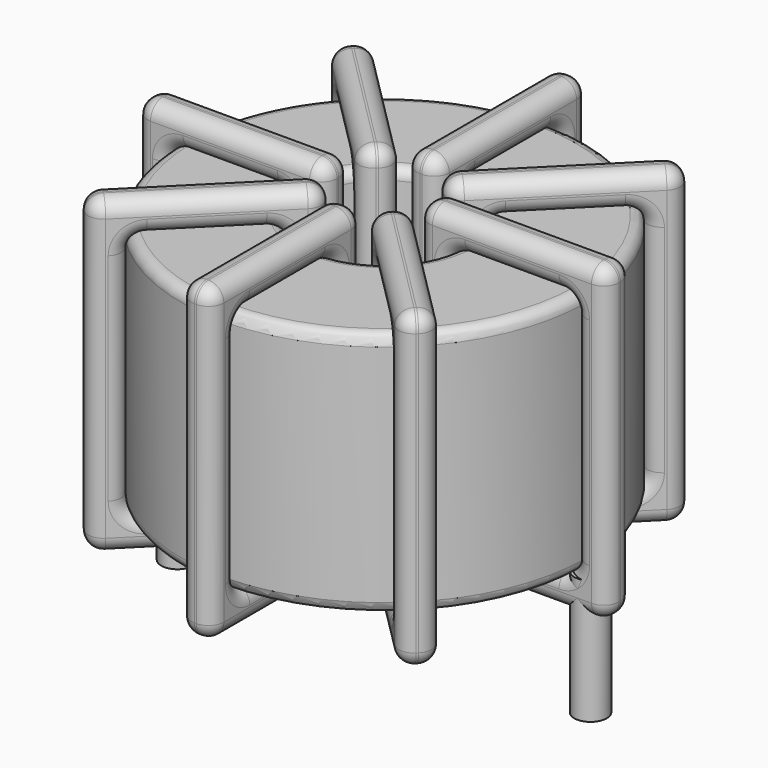
from build123d import *

# Parameters (mm, degrees)
SKETCH001_R       = 0.75
PAD001_DEPTH      = 0.75
PAD001_DEPTH_BACK = 5
SKETCH_R          = 9.4
SKETCH_R_2        = 3.633333
PAD_DEPTH         = 11.4
FILLET_R          = 0.5
SKETCH003_W       = 8.766667
SKETCH003_H       = 14.4
SKETCH003_W_2     = 5.766667
SKETCH003_H_2     = 11.4
PAD002_DEPTH      = 0.75
FILLET001_R       = 0.705
SKETCH004_W       = 8.766667
SKETCH004_H       = 14.4
SKETCH004_W_2     = 5.766667
SKETCH004_H_2     = 11.4
PAD003_DEPTH      = 0.75
FILLET002_R       = 0.705
SKETCH005_W       = 8.766667
SKETCH005_H       = 14.4
SKETCH005_W_2     = 5.766667
SKETCH005_H_2     = 11.4
PAD004_DEPTH      = 0.75
FILLET003_R       = 0.705
SKETCH006_W       = 8.766667
SKETCH006_H       = 14.4
SKETCH006_W_2     = 5.766667
SKETCH006_H_2     = 11.4
PAD005_DEPTH      = 0.75
FILLET004_R       = 0.705


with BuildPart() as pad001:
    # Sketch001 → Pad001 (new body, two sides)
    with BuildSketch(Plane.XY.offset(1.25)) as pad001_sk:
        Circle(SKETCH001_R)
        with Locations((19.1, 0)):
            Circle(SKETCH001_R)
    extrude(amount=PAD001_DEPTH)
    extrude(pad001_sk.sketch, amount=-PAD001_DEPTH_BACK)


with BuildPart() as fillet_body:
    # Sketch → Pad (new body)
    with BuildSketch(Plane.XY.offset(2)):
        with Locations((9.55, 0)):
            Circle(SKETCH_R)
        with Locations((9.55, 0)):
            Circle(SKETCH_R_2, mode=Mode.SUBTRACT)
    extrude(amount=PAD_DEPTH)

    # Fillet
    fillet_edges = [fillet_body.edges().sort_by_distance(p)[0] for p in [
        (5.916667, 0, 13.4),
        (0.15, 0, 13.4),
        (0.15, 0, 2),
    ]]
    fillet(fillet_edges, radius=FILLET_R)


with BuildPart() as fillet001:
    # Sketch003 → Pad002 (new body, symmetric)
    with BuildSketch(Plane(origin=(9.55, 0, 0), x_dir=(1, 0, 0), z_dir=(0, -1, 0))):
        with Locations((-6.516667, 7.7)):
            Rectangle(SKETCH003_W, SKETCH003_H)
        with Locations((-6.516667, 7.7)):
            Rectangle(SKETCH003_W_2, SKETCH003_H_2, mode=Mode.SUBTRACT)
        with Locations((6.516667, 7.7)):
            Rectangle(SKETCH003_W, SKETCH003_H)
        with Locations((6.516667, 7.7)):
            Rectangle(SKETCH003_W_2, SKETCH003_H_2, mode=Mode.SUBTRACT)
    extrude(amount=PAD002_DEPTH, both=True)

    # Fillet001
    fillet001_edges = [fillet001.edges().sort_by_distance(p)[0] for p in [
        (5.916667, 0, 13.4),
        (5.916667, 0, 2),
        (5.916667, 0.75, 7.7),
        (5.916667, -0.75, 7.7),
        (-1.35, 0, 14.9),
        (7.416667, 0, 14.9),
        (3.033333, 0.75, 14.9),
        (3.033333, -0.75, 14.9),
        (7.416667, 0, 0.5),
        (7.416667, 0.75, 7.7),
        (7.416667, -0.75, 7.7),
        (13.183333, 0, 13.4),
        (18.95, 0, 13.4),
        (16.066667, 0.75, 13.4),
        (16.066667, -0.75, 13.4),
        (18.95, 0, 2),
        (18.95, 0.75, 7.7),
        (18.95, -0.75, 7.7),
        (11.683333, 0, 14.9),
        (20.45, 0, 14.9),
        (16.066667, 0.75, 14.9),
        (16.066667, -0.75, 14.9),
        (20.45, 0, 0.5),
        (20.45, 0.75, 7.7),
        (20.45, -0.75, 7.7),
        (0.15, 0, 13.4),
        (3.033333, 0.75, 13.4),
        (3.033333, -0.75, 13.4),
        (13.183333, 0, 2),
        (13.183333, 0.75, 7.7),
        (13.183333, -0.75, 7.7),
        (16.066667, 0.75, 2),
        (16.066667, -0.75, 2),
        (11.683333, 0, 0.5),
        (16.066667, 0.75, 0.5),
        (16.066667, -0.75, 0.5),
        (11.683333, 0.75, 7.7),
        (11.683333, -0.75, 7.7),
        (-1.35, 0, 0.5),
        (3.033333, 0.75, 0.5),
        (3.033333, -0.75, 0.5),
        (-1.35, 0.75, 7.7),
        (-1.35, -0.75, 7.7),
        (0.15, 0, 2),
        (0.15, 0.75, 7.7),
        (0.15, -0.75, 7.7),
        (3.033333, 0.75, 2),
        (3.033333, -0.75, 2),
    ]]
    fillet(fillet001_edges, radius=FILLET001_R)


with BuildPart() as fillet002:
    # Sketch004 → Pad003 (new body, symmetric)
    with BuildSketch(Plane(origin=(9.55, 0, 0), x_dir=(0.707107, 0.707107, 0), z_dir=(0.707107, -0.707107, 0))):
        with Locations((-6.516667, 7.7)):
            Rectangle(SKETCH004_W, SKETCH004_H)
        with Locations((-6.516667, 7.7)):
            Rectangle(SKETCH004_W_2, SKETCH004_H_2, mode=Mode.SUBTRACT)
        with Locations((6.516667, 7.7)):
            Rectangle(SKETCH004_W, SKETCH004_H)
        with Locations((6.516667, 7.7)):
            Rectangle(SKETCH004_W_2, SKETCH004_H_2, mode=Mode.SUBTRACT)
    extrude(amount=PAD003_DEPTH, both=True)

    # Fillet002
    fillet002_edges = [fillet002.edges().sort_by_distance(p)[0] for p in [
        (16.196804, 6.646804, 13.4),
        (16.196804, 6.646804, 2),
        (15.666474, 7.177134, 7.7),
        (16.727134, 6.116474, 7.7),
        (17.257464, 7.707464, 0.5),
        (11.058494, 1.508494, 0.5),
        (13.627649, 5.138309, 0.5),
        (14.688309, 4.077649, 0.5),
        (11.058494, 1.508494, 14.9),
        (10.528164, 2.038825, 7.7),
        (11.588825, 0.978164, 7.7),
        (2.903196, -6.646804, 13.4),
        (6.980845, -2.569155, 13.4),
        (4.411691, -4.077649, 13.4),
        (5.472351, -5.138309, 13.4),
        (6.980845, -2.569155, 2),
        (6.450515, -2.038825, 7.7),
        (7.511175, -3.099485, 7.7),
        (8.041506, -1.508494, 0.5),
        (1.842536, -7.707464, 0.5),
        (4.411691, -4.077649, 0.5),
        (5.472351, -5.138309, 0.5),
        (1.842536, -7.707464, 14.9),
        (1.312206, -7.177134, 7.7),
        (2.372866, -8.237794, 7.7),
        (12.119155, 2.569155, 13.4),
        (13.627649, 5.138309, 13.4),
        (14.688309, 4.077649, 13.4),
        (2.903196, -6.646804, 2),
        (2.372866, -6.116474, 7.7),
        (3.433526, -7.177134, 7.7),
        (4.411691, -4.077649, 2),
        (5.472351, -5.138309, 2),
        (8.041506, -1.508494, 14.9),
        (4.411691, -4.077649, 14.9),
        (5.472351, -5.138309, 14.9),
        (7.511175, -0.978164, 7.7),
        (8.571836, -2.038825, 7.7),
        (17.257464, 7.707464, 14.9),
        (13.627649, 5.138309, 14.9),
        (14.688309, 4.077649, 14.9),
        (16.727134, 8.237794, 7.7),
        (17.787794, 7.177134, 7.7),
        (12.119155, 2.569155, 2),
        (11.588825, 3.099485, 7.7),
        (12.649485, 2.038825, 7.7),
        (13.627649, 5.138309, 2),
        (14.688309, 4.077649, 2),
    ]]
    fillet(fillet002_edges, radius=FILLET002_R)


with BuildPart() as fillet003:
    # Sketch005 → Pad004 (new body, symmetric)
    with BuildSketch(Plane(origin=(9.55, 0, 0), x_dir=(0.707107, -0.707107, 0), z_dir=(-0.707107, -0.707107, 0))):
        with Locations((-6.516667, 7.7)):
            Rectangle(SKETCH005_W, SKETCH005_H)
        with Locations((-6.516667, 7.7)):
            Rectangle(SKETCH005_W_2, SKETCH005_H_2, mode=Mode.SUBTRACT)
        with Locations((6.516667, 7.7)):
            Rectangle(SKETCH005_W, SKETCH005_H)
        with Locations((6.516667, 7.7)):
            Rectangle(SKETCH005_W_2, SKETCH005_H_2, mode=Mode.SUBTRACT)
    extrude(amount=PAD004_DEPTH, both=True)

    # Fillet003
    fillet003_edges = [fillet003.edges().sort_by_distance(p)[0] for p in [
        (6.980845, 2.569155, 13.4),
        (6.980845, 2.569155, 2),
        (7.511175, 3.099485, 7.7),
        (6.450515, 2.038825, 7.7),
        (1.842536, 7.707464, 14.9),
        (8.041506, 1.508494, 14.9),
        (5.472351, 5.138309, 14.9),
        (4.411691, 4.077649, 14.9),
        (8.041506, 1.508494, 0.5),
        (8.571836, 2.038825, 7.7),
        (7.511175, 0.978164, 7.7),
        (12.119155, -2.569155, 2),
        (12.119155, -2.569155, 13.4),
        (12.649485, -2.038825, 7.7),
        (11.588825, -3.099485, 7.7),
        (16.196804, -6.646804, 2),
        (14.688309, -4.077649, 2),
        (13.627649, -5.138309, 2),
        (11.058494, -1.508494, 14.9),
        (17.257464, -7.707464, 14.9),
        (14.688309, -4.077649, 14.9),
        (13.627649, -5.138309, 14.9),
        (17.257464, -7.707464, 0.5),
        (17.787794, -7.177134, 7.7),
        (16.727134, -8.237794, 7.7),
        (2.903196, 6.646804, 13.4),
        (5.472351, 5.138309, 13.4),
        (4.411691, 4.077649, 13.4),
        (16.196804, -6.646804, 13.4),
        (14.688309, -4.077649, 13.4),
        (13.627649, -5.138309, 13.4),
        (16.727134, -6.116474, 7.7),
        (15.666474, -7.177134, 7.7),
        (11.058494, -1.508494, 0.5),
        (14.688309, -4.077649, 0.5),
        (13.627649, -5.138309, 0.5),
        (11.588825, -0.978164, 7.7),
        (10.528164, -2.038825, 7.7),
        (1.842536, 7.707464, 0.5),
        (5.472351, 5.138309, 0.5),
        (4.411691, 4.077649, 0.5),
        (2.372866, 8.237794, 7.7),
        (1.312206, 7.177134, 7.7),
        (2.903196, 6.646804, 2),
        (3.433526, 7.177134, 7.7),
        (2.372866, 6.116474, 7.7),
        (5.472351, 5.138309, 2),
        (4.411691, 4.077649, 2),
    ]]
    fillet(fillet003_edges, radius=FILLET003_R)


with BuildPart() as fillet004:
    # Sketch006 → Pad005 (new body, symmetric)
    with BuildSketch(Plane.YZ.offset(9.55)):
        with Locations((-6.516667, 7.7)):
            Rectangle(SKETCH006_W, SKETCH006_H)
        with Locations((-6.516667, 7.7)):
            Rectangle(SKETCH006_W_2, SKETCH006_H_2, mode=Mode.SUBTRACT)
        with Locations((6.516667, 7.7)):
            Rectangle(SKETCH006_W, SKETCH006_H)
        with Locations((6.516667, 7.7)):
            Rectangle(SKETCH006_W_2, SKETCH006_H_2, mode=Mode.SUBTRACT)
    extrude(amount=PAD005_DEPTH, both=True)

    # Fillet004
    fillet004_edges = [fillet004.edges().sort_by_distance(p)[0] for p in [
        (9.55, -3.633333, 13.4),
        (9.55, -3.633333, 2),
        (8.8, -3.633333, 7.7),
        (10.3, -3.633333, 7.7),
        (9.55, -10.9, 14.9),
        (9.55, -2.133333, 14.9),
        (8.8, -6.516667, 14.9),
        (10.3, -6.516667, 14.9),
        (9.55, -2.133333, 0.5),
        (8.8, -2.133333, 7.7),
        (10.3, -2.133333, 7.7),
        (9.55, 3.633333, 13.4),
        (9.55, 9.4, 13.4),
        (8.8, 6.516667, 13.4),
        (10.3, 6.516667, 13.4),
        (9.55, 9.4, 2),
        (8.8, 9.4, 7.7),
        (10.3, 9.4, 7.7),
        (9.55, 2.133333, 14.9),
        (9.55, 10.9, 14.9),
        (8.8, 6.516667, 14.9),
        (10.3, 6.516667, 14.9),
        (9.55, 10.9, 0.5),
        (8.8, 10.9, 7.7),
        (10.3, 10.9, 7.7),
        (9.55, -9.4, 13.4),
        (8.8, -6.516667, 13.4),
        (10.3, -6.516667, 13.4),
        (9.55, 3.633333, 2),
        (8.8, 3.633333, 7.7),
        (10.3, 3.633333, 7.7),
        (8.8, 6.516667, 2),
        (10.3, 6.516667, 2),
        (9.55, 2.133333, 0.5),
        (8.8, 6.516667, 0.5),
        (10.3, 6.516667, 0.5),
        (8.8, 2.133333, 7.7),
        (10.3, 2.133333, 7.7),
        (9.55, -10.9, 0.5),
        (8.8, -6.516667, 0.5),
        (10.3, -6.516667, 0.5),
        (8.8, -10.9, 7.7),
        (10.3, -10.9, 7.7),
        (9.55, -9.4, 2),
        (8.8, -9.4, 7.7),
        (10.3, -9.4, 7.7),
        (8.8, -6.516667, 2),
        (10.3, -6.516667, 2),
    ]]
    fillet(fillet004_edges, radius=FILLET004_R)


solid = Compound([pad001.part, fillet_body.part, fillet001.part, fillet002.part, fillet003.part, fillet004.part])
